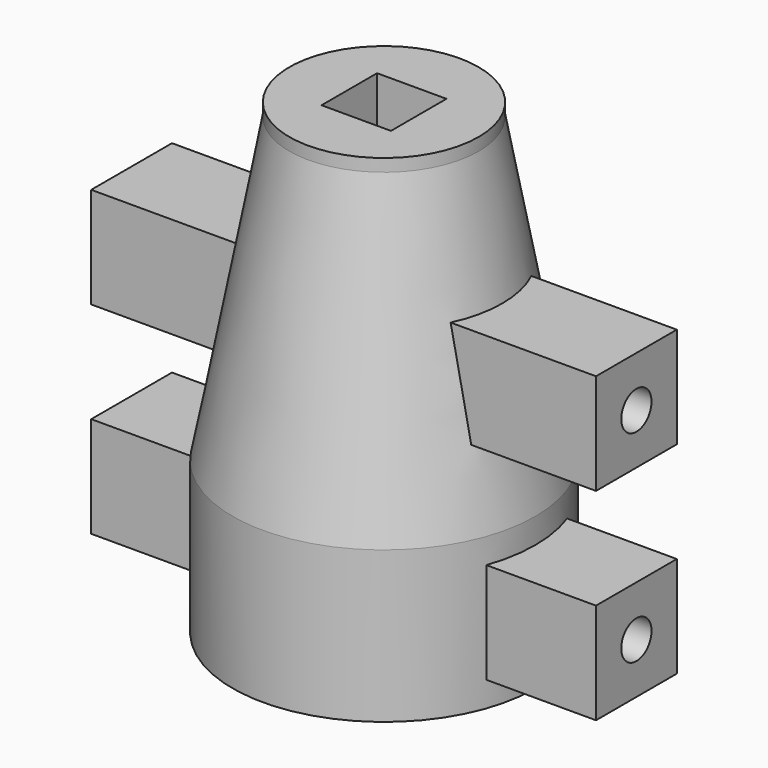
from build123d import *

# Parameters (mm, degrees)
F0_R        = 12
F1_DEPTH    = 12
F3_R        = 7.5
F3_W        = 5.5
F3_H        = 5.5
F4_DEPTH    = 1
F4_FACE_R   = 7.5
F1_FACE_R   = 12
F6_DEPTH    = 25
F7_DEPTH    = 12
F8_W        = 8
F8_H        = 8
F8_R        = 1.5
F9_DEPTH    = 20
F9_FACE_W   = 14.6
F9_FACE_H   = 8
F10_DEPTH   = 8
F9_FACE_W_2 = 5.5
F9_FACE_H_2 = 5.5
F11_DEPTH   = 25
F12_DEPTH   = 12.5


with BuildPart() as f1:
    # F0 (on Top) → F1 (new body)
    with BuildSketch(Plane.XY):
        Circle(F0_R)
        Polygon((-7.3, -4.214657), (-7.3, 4.214657), (0, 8.429314), (7.3, 4.214657), (7.3, -4.214657), (0, -8.429314), align=None, mode=Mode.SUBTRACT)
        Polygon((0, 8.429314), (-7.3, 4.214657), (-7.3, -4.214657), (0, -8.429314), (7.3, -4.214657), (7.3, 4.214657), align=None)
    extrude(amount=F1_DEPTH)



with BuildPart() as f4:
    # F3 (on offset) → F4 (new body)
    with BuildSketch(Plane.XY.offset(37)):
        Circle(F3_R)
        Rectangle(F3_W, F3_H, mode=Mode.SUBTRACT)
        Rectangle(F3_W, F3_H)
    extrude(amount=-F4_DEPTH)


with BuildPart() as f1_1:
    add(f1.part)

    add(f4.part)  # F5 merges F4
    # F4_face (on face) → F5 section 0
    with BuildSketch(Plane(origin=(0, 0, 36), x_dir=(1, 0, 0), z_dir=(0, 0, -1))):
        Circle(F4_FACE_R)
    # F1_face (on face) → F5 section 1
    with BuildSketch(Plane.XY.offset(12)):
        Circle(F1_FACE_R)
    loft()

    # F3 (on offset) → F6 (cut)
    with BuildSketch(Plane.XY.offset(37)):
        Rectangle(F3_W, F3_H)
    extrude(amount=-F6_DEPTH, mode=Mode.SUBTRACT)

    # F0 (on Top) → F7 (cut)
    with BuildSketch(Plane.XY):
        Polygon((0, 8.429314), (-7.3, 4.214657), (-7.3, -4.214657), (0, -8.429314), (7.3, -4.214657), (7.3, 4.214657), align=None)
    extrude(amount=F7_DEPTH, mode=Mode.SUBTRACT)

    # F8 (on Right) → F9 (join, symmetric)
    with BuildSketch(Plane.YZ):
        with Locations((0, 22)):
            Rectangle(F8_W, F8_H)
        with Locations((0, 22)):
            Circle(F8_R, mode=Mode.SUBTRACT)
        with Locations((0, 6)):
            Rectangle(F8_W, F8_H)
        with Locations((0, 6)):
            Circle(F8_R, mode=Mode.SUBTRACT)
    extrude(amount=F9_DEPTH, both=True)

    # F9_face (on face) → F10 (cut)
    with BuildSketch(Plane(origin=(0, 0, 2), x_dir=(1, 0, 0), z_dir=(0, 0, -1))):
        Rectangle(F9_FACE_W, F9_FACE_H)
    extrude(amount=-F10_DEPTH, mode=Mode.SUBTRACT)

    # F9_face (on face) → F11 (cut)
    with BuildSketch(Plane(origin=(0, 0, 2), x_dir=(1, 0, 0), z_dir=(0, 0, -1))):
        Rectangle(F9_FACE_W_2, F9_FACE_H_2)
    extrude(amount=-F11_DEPTH, mode=Mode.SUBTRACT)

    # F8 (on Right) → F12 (cut, symmetric)
    with BuildSketch(Plane.YZ):
        with Locations((0, 22)):
            Circle(F8_R)
        with Locations((0, 6)):
            Circle(F8_R)
    extrude(amount=F12_DEPTH, both=True, mode=Mode.SUBTRACT)


solid = f1_1.part
